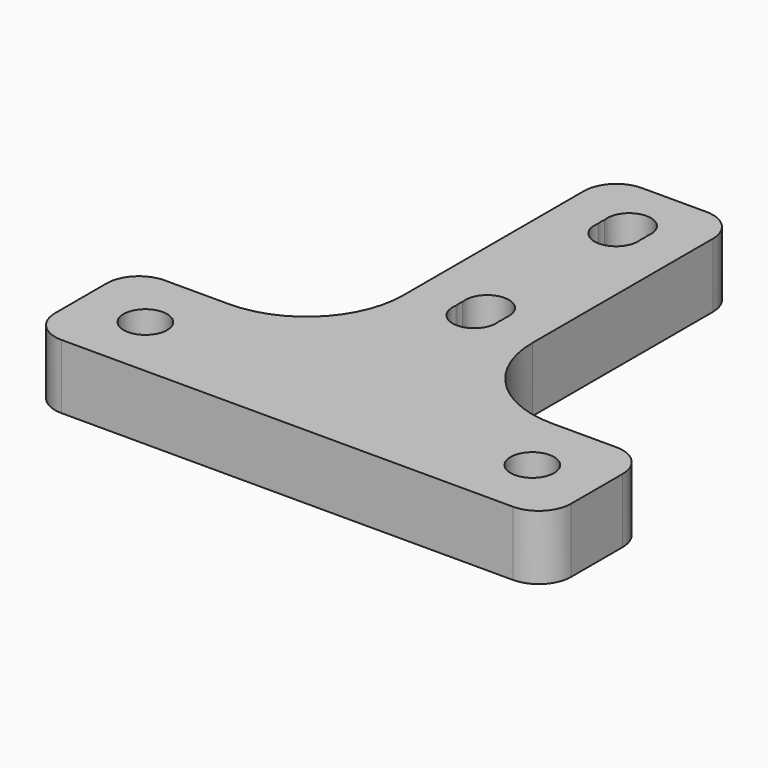
from build123d import *

# Parameters (mm, degrees)
F0_W     = 12
F0_H     = 8
F1_DEPTH = 4
F2_D     = 2.7
F3_R     = 6
F4_R     = 2


with BuildPart() as f1:
    # F0 (on Top) → F1 (new body)
    with BuildSketch(Plane.XY):
        Polygon((-4, -15), (4, -15), (4, -7), (4, 15), (-4, 15), (-4, -7), align=None)
        with Locations((10, -11)):
            Rectangle(F0_W, F0_H)
        with Locations((-10, -11)):
            Rectangle(F0_W, F0_H)
    extrude(amount=F1_DEPTH)

    # F2 (through all)
    with Locations(Plane(origin=(0, 0, 0), x_dir=(1, 0, 0), z_dir=(0, 0, -1))):
        with Locations((0, -11), (12, 11), (0, 0), (-12, 11), (0, -10.5), (0, -11.5), (0, -0.5), (0, 0.5)):
            Hole(F2_D / 2)

    # F3
    f3_edges = [f1.edges().sort_by_distance(p)[0] for p in [
        (-4, -7, 2),
        (4, -7, 2),
    ]]
    fillet(f3_edges, radius=F3_R)

    # F4
    f4_edges = [f1.edges().sort_by_distance(p)[0] for p in [
        (-4, 15, 2),
        (4, 15, 2),
        (16, -7, 2),
        (16, -15, 2),
        (-16, -7, 2),
        (-16, -15, 2),
    ]]
    fillet(f4_edges, radius=F4_R)


solid = f1.part
